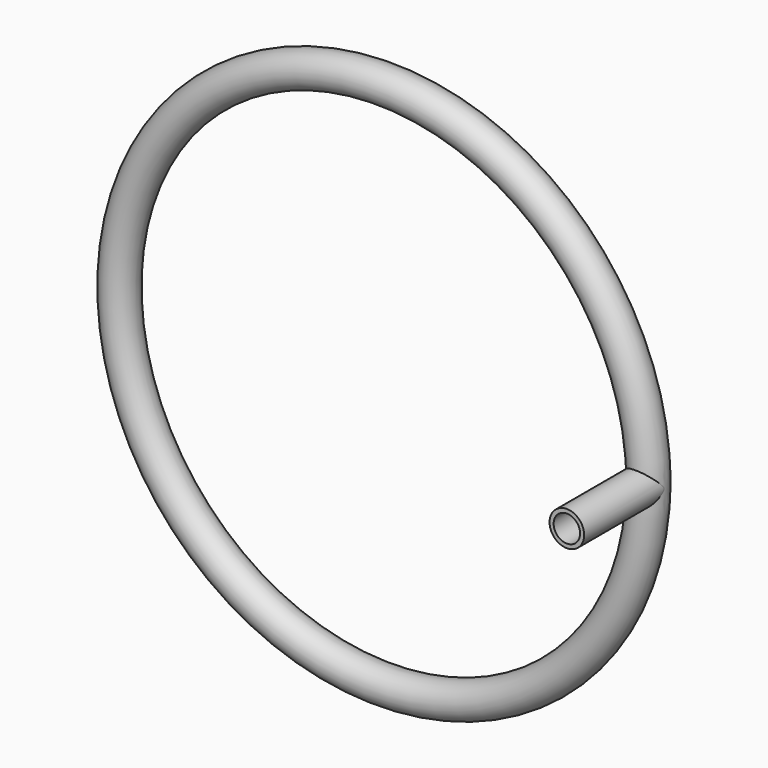
from build123d import *

# Parameters (mm, degrees)
F1_R     = 4.2489
F1_R_2   = 2.749875
F3_R     = 4.250941
F4_DEPTH = 25
F5_R     = 3.252475
F6_DEPTH = 25


with BuildPart() as f2:
    # F2: sweep along a path in F0
    with BuildLine(Plane.XZ) as f2_path:
        CenterArc((0, 0), 65, 0, 360)
    # F1 (on Top) → F2 (sweep)
    with BuildSketch(Plane.XY):
        with Locations((64.998679, 0)):
            Circle(F1_R)
        with Locations((64.998679, 0)):
            Circle(F1_R_2, mode=Mode.SUBTRACT)
    sweep(path=f2_path.line)

    # F3 (on Front) → F4 (join)
    with BuildSketch(Plane.XZ):
        with Locations((64.976901, 0)):
            Circle(F3_R)
    extrude(amount=F4_DEPTH)

    # F5 (on face) → F6 (cut)
    with BuildSketch(Plane.XZ.offset(25)):
        with Locations((64.976901, 0)):
            Circle(F5_R)
    extrude(amount=-F6_DEPTH, mode=Mode.SUBTRACT)


solid = f2.part
